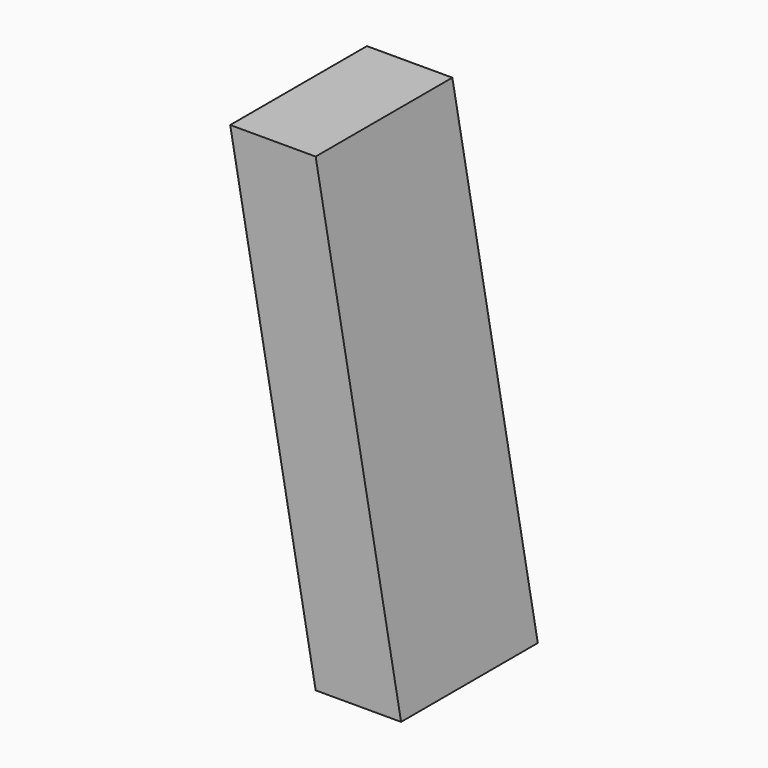
from build123d import *

# Parameters (mm, degrees)
F0_W = 5
F0_H = 10


with BuildPart() as f2:
    # F2: sweep along a path in F1
    with BuildLine(Plane.XZ) as f2_path:
        Line((0, 0), (5, -27.5))
    # F0 (on Top) → F2 (sweep)
    with BuildSketch(Plane.XY):
        Rectangle(F0_W, F0_H)
    sweep(path=f2_path.line)


solid = f2.part
